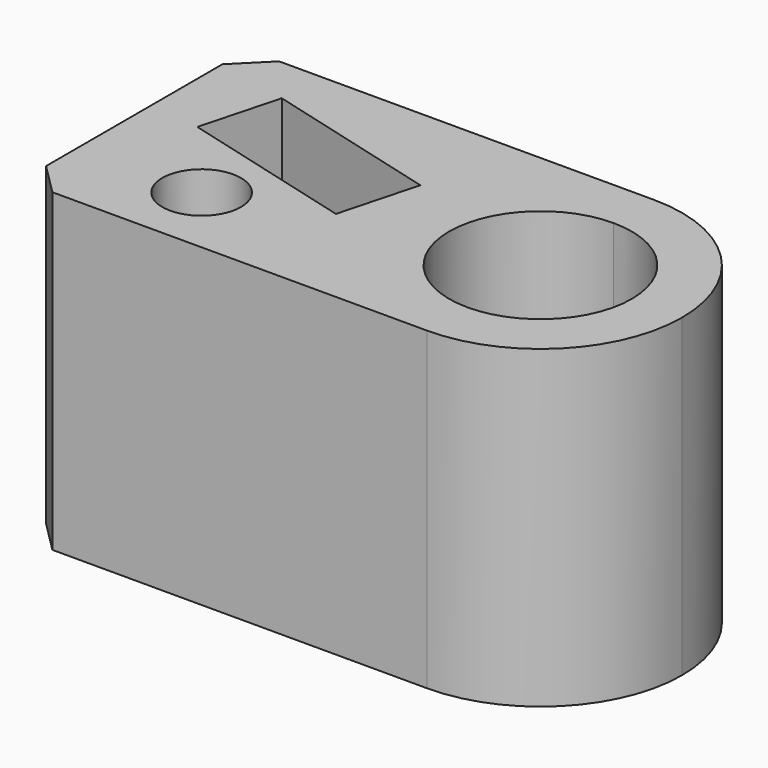
from build123d import *

# Parameters (mm, degrees)
F0_R     = 1.25
F1_DEPTH = 10
F3_DEPTH = 5
F5_DEPTH = 2.6
F6_R     = 1.5
F7_DEPTH = 3
F8_DEPTH = 4.5
F9_SIZE  = 1
F10_SIZE = 1


with BuildPart() as f1:
    # F0 (on Top) → F1 (new body)
    with BuildSketch(Plane.XY):
        with BuildLine():
            Line((0, 9), (0, 0))
            Line((0, 0), (12.9, 0))
            ThreePointArc((12.9, 0), (8.4, 4.5), (12.9, 9))
            Line((12.9, 9), (0, 9))
        make_face()
        with Locations((3.9, 2.3)):
            Circle(F0_R, mode=Mode.SUBTRACT)
        with BuildLine():
            ThreePointArc((12.9, 9), (8.4, 4.5), (12.9, 0))
            Line((12.9, 0), (12.9, 1.6))
            ThreePointArc((12.9, 1.6), (10, 4.5), (12.9, 7.4))
            Line((12.9, 7.4), (12.9, 9))
        make_face()
        with BuildLine():
            Line((12.9, 1.6), (12.9, 0))
            ThreePointArc((12.9, 0), (16.0819805153, 1.3180194847), (17.4, 4.5))
            ThreePointArc((17.4, 4.5), (16.0819805153, 7.6819805153), (12.9, 9))
            Line((12.9, 9), (12.9, 7.4))
            ThreePointArc((12.9, 7.4), (14.9506096654, 6.5506096654), (15.8, 4.5))
            ThreePointArc((15.8, 4.5), (14.9506096654, 2.4493903346), (12.9, 1.6))
        make_face()
    extrude(amount=-F1_DEPTH)

    # F2 (on face) → F3 (cut)
    with BuildSketch(Plane.XY):
        Polygon((7.8917525037, 5.9926835701), (2.2893827112, 7.4938340317), (1.616453194, 4.9824268834), (7.2188229864, 3.4812764218), align=None)
    extrude(amount=-F3_DEPTH, mode=Mode.SUBTRACT)

    # F4 (on face) → F5 (cut, through all)
    with BuildSketch(Plane(origin=(2.0268180701, 7.5641880153, 0), x_dir=(0.9659258263, -0.2588190451, 0), z_dir=(-0.2588190451, -0.9659258263, 0))):
        Polygon((6.0718269188, -5.9743157806), (6.0718269188, -2.6256842194), (3.1718269188, -0.9513684387), (0.2718269188, -2.6256842194), (0.2718269188, -5.9743157806), (3.1718269188, -7.6486315613), align=None)
    extrude(amount=F5_DEPTH, mode=Mode.SUBTRACT)

    # F6 (on face) → F7 (cut)
    with BuildSketch(Plane(origin=(2.0268180701, 7.5641880153, 0), x_dir=(0.9659258263, -0.2588190451, 0), z_dir=(-0.2588190451, -0.9659258263, 0))):
        with Locations((3.1718269188, -4)):
            Circle(F6_R)
    extrude(amount=-F7_DEPTH, mode=Mode.SUBTRACT)

    # F6 (on face) → F8 (cut)
    with BuildSketch(Plane(origin=(2.0268180701, 7.5641880153, 0), x_dir=(0.9659258263, -0.2588190451, 0), z_dir=(-0.2588190451, -0.9659258263, 0))):
        with Locations((3.1718269188, -4)):
            Circle(F6_R)
    extrude(amount=F8_DEPTH, mode=Mode.SUBTRACT)

    # F9
    f9_edges = [f1.edges().sort_by_distance(p)[0] for p in [
        (0, 0, -5),
    ]]
    chamfer(f9_edges, length=F9_SIZE)

    # F10
    f10_edges = [f1.edges().sort_by_distance(p)[0] for p in [
        (0, 9, -5),
    ]]
    chamfer(f10_edges, length=F10_SIZE)


solid = f1.part
